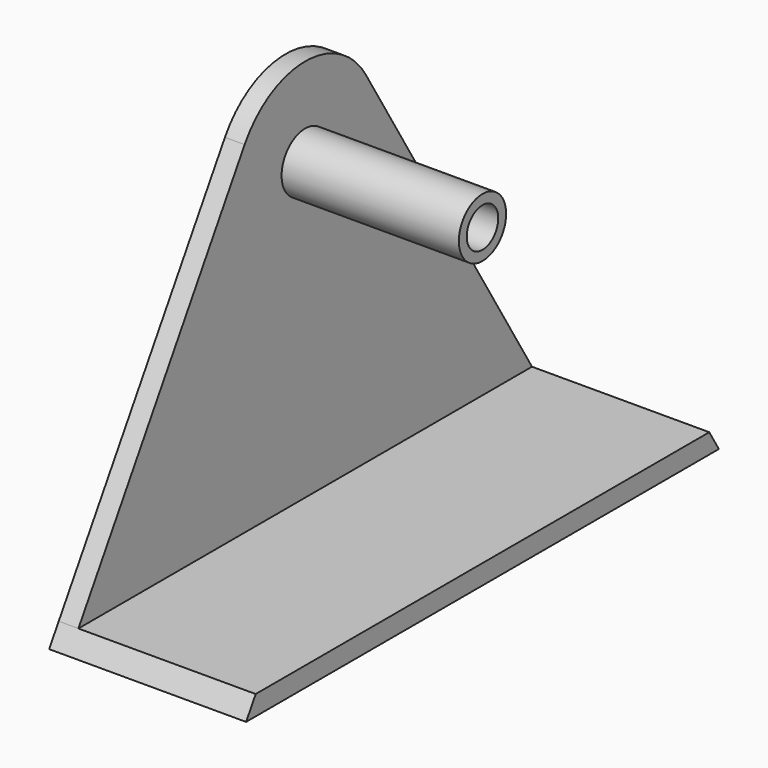
from build123d import *

# Parameters (mm, degrees)
F0_R     = 15
F1_DEPTH = 10
F0_R_2   = 10
F2_DEPTH = 100
F0_R_3   = 8
F3_DEPTH = 10
F4_DEPTH = 10
F5_DEPTH = 100


with BuildPart() as f1:
    # F0 (on Right) → F1 (new body)
    with BuildSketch(Plane.YZ):
        Polygon((-150, 0), (0, 0), (150, 0), (143.916984, 10), (0, 10), (-143.916984, 10), align=None)
        with BuildLine():
            Line((-38.445662, 183.386558), (-143.916984, 10))
            Line((-143.916984, 10), (0, 10))
            Line((0, 10), (143.916984, 10))
            Line((143.916984, 10), (38.445662, 183.386558))
            ThreePointArc((38.445662, 183.386558), (43.330444, 172.14383), (45, 160))
            ThreePointArc((45, 160), (-12.14383, 116.669556), (-38.445662, 183.386558))
        make_face()
        with BuildLine():
            ThreePointArc((38.445662, 183.386558), (0, 205), (-38.445662, 183.386558))
            ThreePointArc((-38.445662, 183.386558), (-12.14383, 116.669556), (45, 160))
            ThreePointArc((45, 160), (43.330444, 172.14383), (38.445662, 183.386558))
        make_face()
        with Locations((0, 160)):
            Circle(F0_R, mode=Mode.SUBTRACT)
    extrude(amount=F1_DEPTH)

    # F0 (on Right) → F2 (join)
    with BuildSketch(Plane.YZ):
        with Locations((0, 160)):
            Circle(F0_R)
        with Locations((0, 160)):
            Circle(F0_R_2, mode=Mode.SUBTRACT)
    extrude(amount=F2_DEPTH)

    # F0 (on Right) → F3 (join)
    with BuildSketch(Plane.YZ):
        with Locations((0, 160)):
            Circle(F0_R_2)
        with Locations((0, 160)):
            Circle(F0_R_3, mode=Mode.SUBTRACT)
    extrude(amount=F3_DEPTH)

    # F0 (on Right) → F4 (join)
    with BuildSketch(Plane.YZ):
        with Locations((0, 160)):
            Circle(F0_R_3)
    extrude(amount=F4_DEPTH)

    # F0 (on Right) → F5 (join)
    with BuildSketch(Plane.YZ):
        Polygon((-150, 0), (0, 0), (150, 0), (143.916984, 10), (0, 10), (-143.916984, 10), align=None)
    extrude(amount=F5_DEPTH)


solid = f1.part
